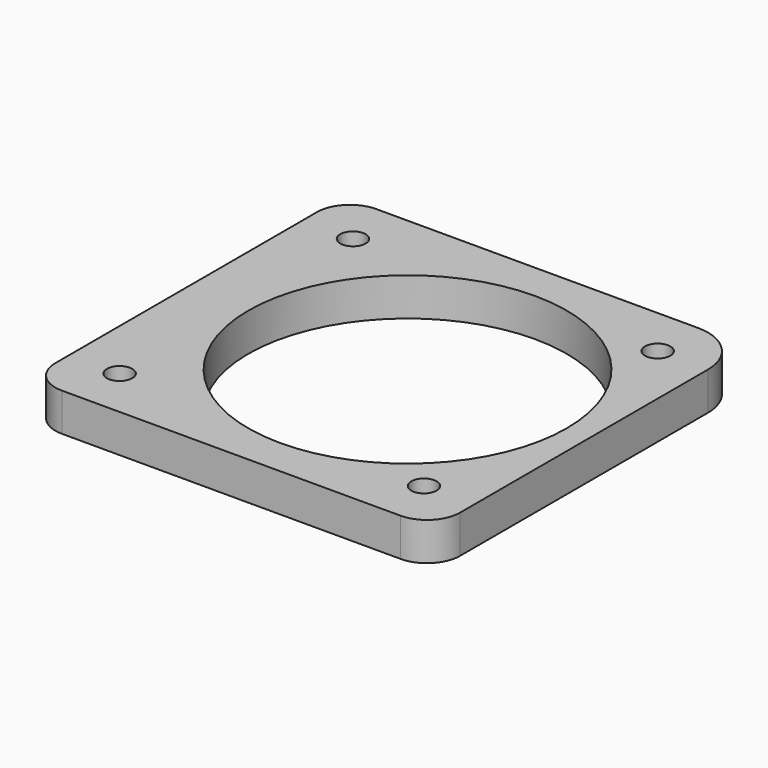
from build123d import *

# Parameters (mm, degrees)
F0_R     = 3.175
F0_R_2   = 39.878
F1_DEPTH = 9.525


with BuildPart() as f1:
    # F0 (on Top) → F1 (new body)
    with BuildSketch(Plane.XY):
        with BuildLine():
            Line((38.1, 49.2125), (-42.389483, 49.2125))
            ThreePointArc((-42.389483, 49.2125), (-48.246814, 46.786314), (-50.673, 40.928983))
            Line((-50.673, 40.928983), (-50.673, -40.928983))
            ThreePointArc((-50.673, -40.928983), (-48.246814, -46.786314), (-42.389483, -49.2125))
            Line((-42.389483, -49.2125), (42.389483, -49.2125))
            ThreePointArc((42.389483, -49.2125), (48.246814, -46.786314), (50.673, -40.928983))
            Line((50.673, -40.928983), (50.673, 36.6395))
            ThreePointArc((50.673, 36.6395), (46.990454, 45.529954), (38.1, 49.2125))
        make_face()
        with Locations((-38.1, -36.5125)):
            Circle(F0_R, mode=Mode.SUBTRACT)
        with Locations((38.1, -36.5125)):
            Circle(F0_R, mode=Mode.SUBTRACT)
        with Locations((-38.1, 36.5125)):
            Circle(F0_R, mode=Mode.SUBTRACT)
        with Locations((4.7752, 0)):
            Circle(F0_R_2, mode=Mode.SUBTRACT)
        with Locations((38.1, 36.6395)):
            Circle(F0_R, mode=Mode.SUBTRACT)
    extrude(amount=F1_DEPTH)


solid = f1.part
